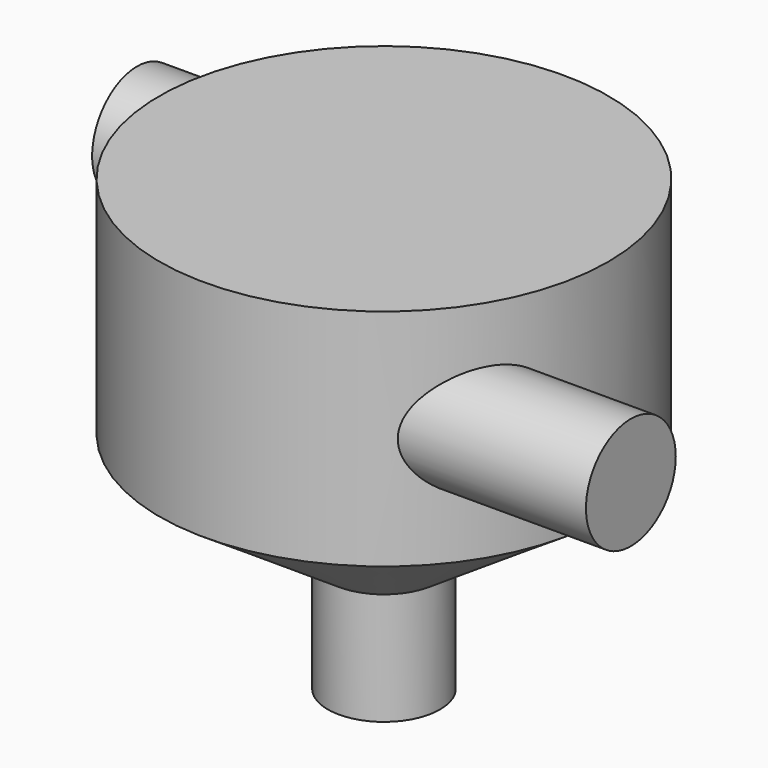
from build123d import *

# Parameters (mm, degrees)
F3_R = 500
F5_R = 500


with BuildPart() as f1:
    # F0 (on Front) → F1 (revolve)
    with BuildSketch(Plane.XZ):
        Polygon((0, 4000), (0, 0), (500, 0), (500, 1000), (2000, 2000), (2000, 4000), align=None)
    revolve(axis=Axis((0, 0, 2000), (0, 0, -1)))

    # F3 (on offset) → F6 (join, up to the next surface of F1)
    with BuildSketch(Plane.YZ.offset(-3000)):
        with Locations((1000, 3000)):
            Circle(F3_R)
    extrude(until=Until.NEXT)

    # F5 (on offset) → F7 (join, up to the next surface of F1)
    with BuildSketch(Plane.YZ.offset(3000)):
        with Locations((-1000, 3000)):
            Circle(F5_R)
    extrude(until=Until.NEXT, dir=(-1, 0, 0))


solid = f1.part
